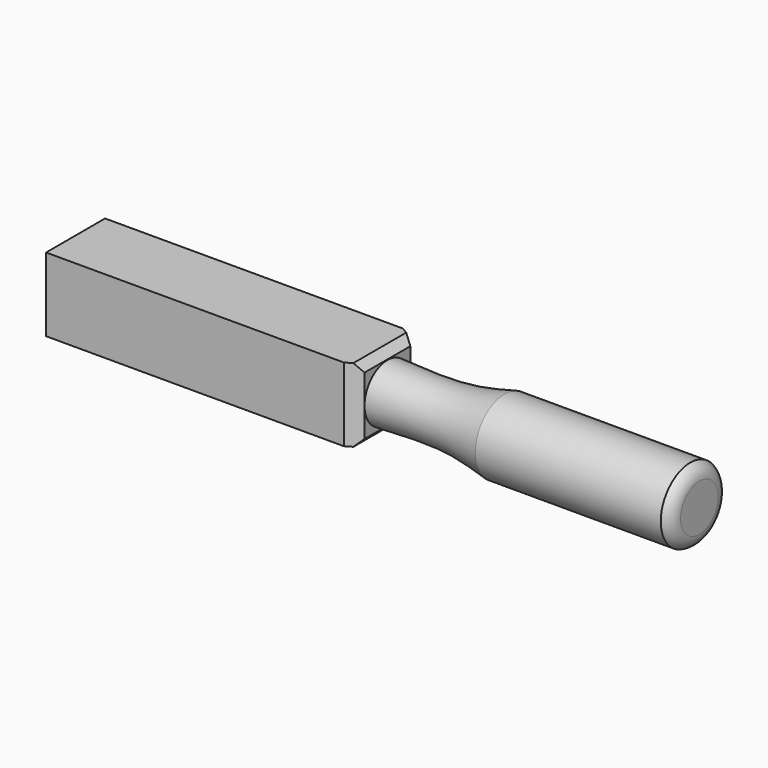
from build123d import *

# Parameters (mm, degrees)
F0_W     = 105
F0_H     = 26
F2_DEPTH = 13
F3_DEPTH = 13
F4_DEPTH = 13
F5_DEPTH = 13
F6_SIZE  = 2.7
F7_SIZE  = 2.7


with BuildPart() as f1:
    # F0 (on Top) → F1 (revolve)
    with BuildSketch(Plane.XY):
        with BuildLine():
            Line((110, 0), (0, 0))
            Line((0, 0), (0, -10.0923664868))
            add(Edge.make_bspline(
                [(0, -10.0923664868), (8.6124591201, -9.6848175395), (24.3863467012, -8.9383836594), (36.054630575, -11.7317822521), (41.3520932198, -13)],
                knots=[0, 0, 0, 0, 0.5459947065, 1, 1, 1, 1], degree=3))
            Line((41.3520932198, -13), (106.8001613021, -13))
            ThreePointArc((106.8001613021, -13), (109.0781586072, -11.1114138074), (110, -8.2996104758))
            Line((110, -8.2996104758), (110, -7.9163433984))
            Line((110, -7.9163433984), (110, 0))
        make_face()
    revolve(axis=Axis((55, 0, 0), (1, 0, 0)))



with BuildPart() as f2:
    # F0 (on Top) → F2 (new body)
    with BuildSketch(Plane.XY):
        with Locations((-57.5, 0)):
            Rectangle(F0_W, F0_H)
    extrude(amount=F2_DEPTH)

    # F3 (add): a face of the model
    f3_faces = [f2.faces().sort_by_distance(p)[0] for p in [
        (-57.5, 0, 0),
    ]]
    extrude(f3_faces, amount=F3_DEPTH)


with BuildPart() as f4:
    # F0 (on Top) → F4 (new body)
    with BuildSketch(Plane.XY):
        Polygon((0, 0), (0, 10.0923664868), (-5, 13), (-5, -13), (0, -10.0923664868), align=None)
    extrude(amount=F4_DEPTH)


with BuildPart() as f1_1:
    add(f1.part)
    # F5 (add): a face of the model
    f5_faces = [f4.part.faces().sort_by_distance(p)[0] for p in [
        (-2.6049276578, 0, 0),
    ]]

    add(f2.part)  # F5 merges F2

    add(f4.part)  # F5 merges F4
    extrude(f5_faces, amount=F5_DEPTH)

    # F6
    f6_edges = [f1_1.edges().sort_by_distance(p)[0] for p in [
        (0, 0, 13),
    ]]
    chamfer(f6_edges, length=F6_SIZE)

    # F7
    f7_edges = [f1_1.edges().sort_by_distance(p)[0] for p in [
        (0, 0, -13),
    ]]
    chamfer(f7_edges, length=F7_SIZE)


solid = f1_1.part
